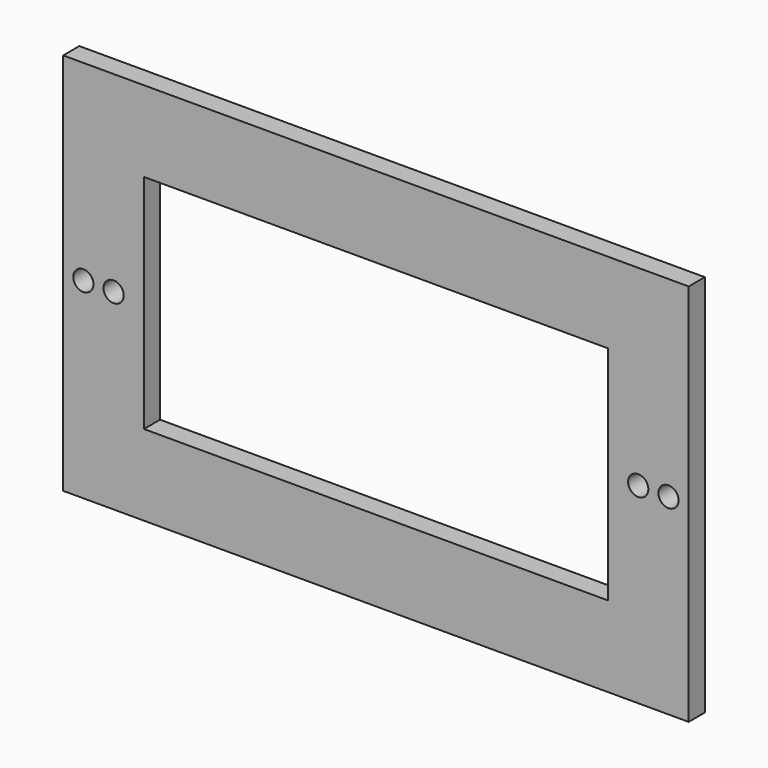
from build123d import *

# Parameters (mm, degrees)
F0_W     = 787.4
F0_H     = 482.6
F0_R     = 12.7
F0_W_2   = 584.2
F0_H_2   = 279.4
F1_DEPTH = 25.4


with BuildPart() as f1:
    # F0 (on Front) → F1 (new body)
    with BuildSketch(Plane.XZ):
        with Locations((310.997691, 143.484188)):
            Rectangle(F0_W, F0_H)
        with Locations((-57.302309, 143.484188)):
            Circle(F0_R, mode=Mode.SUBTRACT)
        with Locations((-19.202309, 143.484188)):
            Circle(F0_R, mode=Mode.SUBTRACT)
        with Locations((641.197691, 143.484188)):
            Circle(F0_R, mode=Mode.SUBTRACT)
        with Locations((679.297691, 143.484188)):
            Circle(F0_R, mode=Mode.SUBTRACT)
        with Locations((310.997691, 143.484188)):
            Rectangle(F0_W_2, F0_H_2, mode=Mode.SUBTRACT)
    extrude(amount=F1_DEPTH)


solid = f1.part
